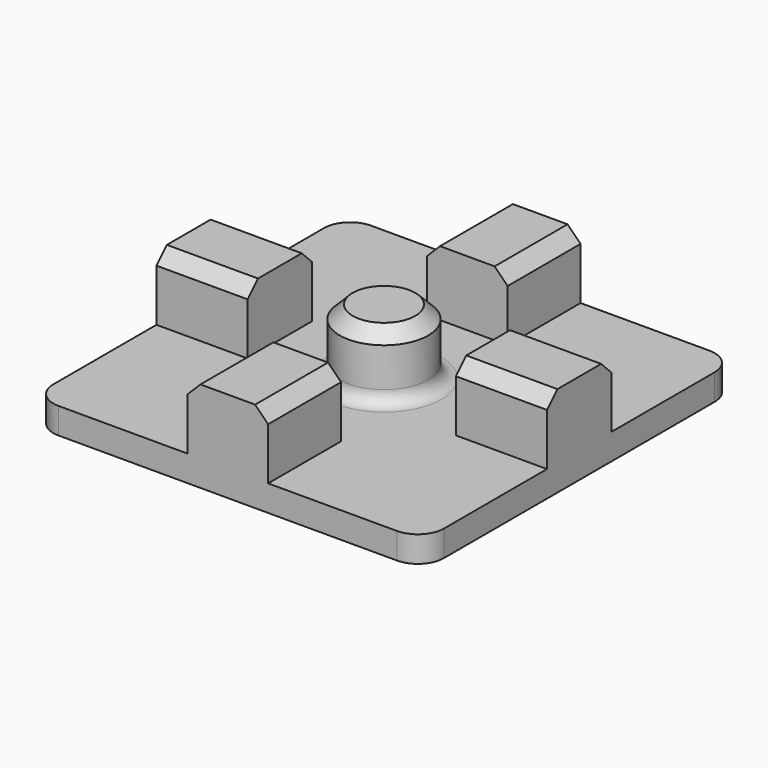
from build123d import *

# Parameters (mm, degrees)
PAD_DEPTH     = 2
SKETCH001_R   = 3.4
SKETCH001_W   = 7
SKETCH001_H   = 6.2
SKETCH001_W_2 = 6.2
SKETCH001_H_2 = 7
PAD001_DEPTH  = 7
CHAMFER_SIZE  = 1
FILLET_R      = 1


with BuildPart() as part:
    # Sketch → Pad (new body)
    with BuildSketch(Plane.XY):
        with BuildLine():
            Line((-13, 15), (13, 15))
            ThreePointArc((15, 13), (14.414214, 14.414214), (13, 15))
            Line((15, 13), (15, -13))
            ThreePointArc((13, -15), (14.414214, -14.414214), (15, -13))
            Line((13, -15), (-13, -15))
            ThreePointArc((-15, -13), (-14.414214, -14.414214), (-13, -15))
            Line((-15, -13), (-15, 13))
            ThreePointArc((-13, 15), (-14.414214, 14.414214), (-15, 13))
        make_face()
    extrude(amount=PAD_DEPTH)

    # Sketch001 → Pad001 (join)
    with BuildSketch(Plane.XY):
        Circle(SKETCH001_R)
        with Locations((-11.5, 0)):
            Rectangle(SKETCH001_W, SKETCH001_H)
        with Locations((0, -11.5)):
            Rectangle(SKETCH001_W_2, SKETCH001_H_2)
        with Locations((11.5, 0)):
            Rectangle(SKETCH001_W, SKETCH001_H)
        with Locations((0, 11.5)):
            Rectangle(SKETCH001_W_2, SKETCH001_H_2)
    extrude(amount=PAD001_DEPTH)

    # Chamfer
    chamfer_edges = [part.edges().sort_by_distance(p)[0] for p in [
        (-3.4, 0, 7),
        (-11.5, -3.1, 7),
        (-11.5, 3.1, 7),
        (-3.1, 11.5, 7),
        (3.1, 11.5, 7),
        (11.5, 3.1, 7),
        (11.5, -3.1, 7),
        (3.1, -11.5, 7),
        (-3.1, -11.5, 7),
    ]]
    chamfer(chamfer_edges, length=CHAMFER_SIZE)

    # Fillet
    fillet_edges = [part.edges().sort_by_distance(p)[0] for p in [
        (-3.4, 0, 2),
    ]]
    fillet(fillet_edges, radius=FILLET_R)


solid = part.part
